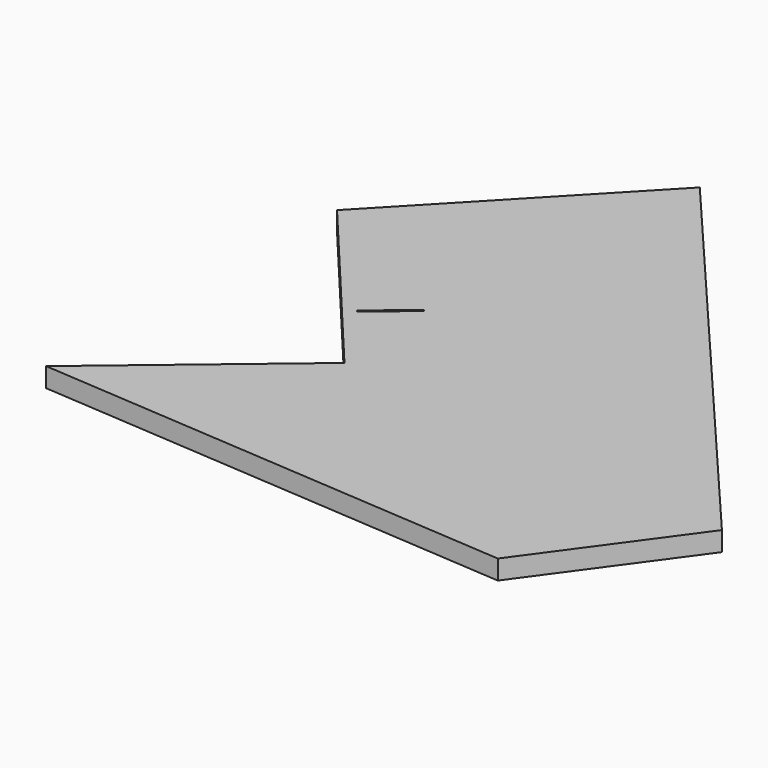
from build123d import *

# Parameters (mm, degrees)
PAD002_DEPTH = 5


with BuildPart() as part:
    # Sketch004 → Pad002 (new body)
    with BuildSketch(Plane.XY):
        with BuildLine():
            add(Edge.make_bspline(
                [(430.058793, -347.396823), (553.284068, -356.075156)],
                knots=[0, 0, 350.165175, 350.165175], degree=1))
            add(Edge.make_bspline(
                [(430.058793, -347.396823), (476.025736, -308.838213)],
                knots=[0, 0, 170.072279, 170.072279], degree=1))
            add(Edge.make_bspline(
                [(476.025736, -308.838213), (433.304348, -257.826547)],
                knots=[0, 0, 188.611691, 188.611691], degree=1))
            add(Edge.make_bspline(
                [(484.069069, -204.557104), (433.304348, -257.826547)],
                knots=[0, 0, 208.586217, 208.586217], degree=1))
            add(Edge.make_bspline(
                [(580.730178, -318.257379), (484.069069, -204.557104)],
                knots=[0, 0, 423.028711, 423.028711], degree=1))
            add(Edge.make_bspline(
                [(553.284068, -356.075156), (580.730178, -318.257379)],
                knots=[0, 0, 132.456332, 132.456332], degree=1))
        make_face()
        with BuildLine():
            add(Edge.make_bspline(
                [(464.06657, -289.858769), (474.402959, -281.180436)],
                knots=[0, 0, 38.257679, 38.257679], degree=1))
            add(Edge.make_bspline(
                [(474.402959, -281.180436), (474.085459, -280.79238)],
                knots=[0, 0, 1.421267, 1.421267], degree=1))
            add(Edge.make_bspline(
                [(474.085459, -280.79238), (463.713792, -289.470713)],
                knots=[0, 0, 38.334319, 38.334319], degree=1))
            add(Edge.make_bspline(
                [(463.713792, -289.470713), (464.06657, -289.858769)],
                knots=[0, 0, 1.486607, 1.486607], degree=1))
        make_face(mode=Mode.SUBTRACT)
    extrude(amount=PAD002_DEPTH)


solid = part.part
